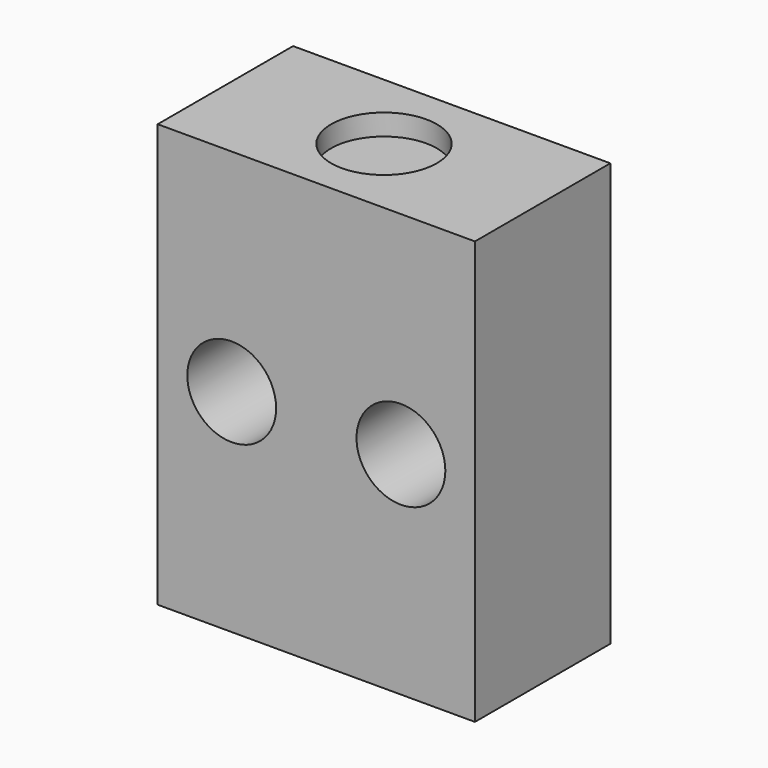
from build123d import *

# Parameters (mm, degrees)
F0_W     = 15
F0_H     = 8
F1_DEPTH = 20
F2_R     = 2.1
F3_DEPTH = 25
F4_R     = 2.5
F5_DEPTH = 1


with BuildPart() as f1:
    # F0 (on Top) → F1 (new body)
    with BuildSketch(Plane.XY):
        with Locations((7.5, 4)):
            Rectangle(F0_W, F0_H)
    extrude(amount=F1_DEPTH)

    # F2 (on face) → F3 (cut)
    with BuildSketch(Plane.XZ):
        with Locations((3.5, 10)):
            Circle(F2_R)
        with Locations((11.5, 10)):
            Circle(F2_R)
    extrude(amount=-F3_DEPTH, mode=Mode.SUBTRACT)

    # F4 (on face) → F5 (cut)
    with BuildSketch(Plane.XY.offset(20)):
        with Locations((7.5, 4)):
            Circle(F4_R)
    extrude(amount=-F5_DEPTH, mode=Mode.SUBTRACT)


solid = f1.part
